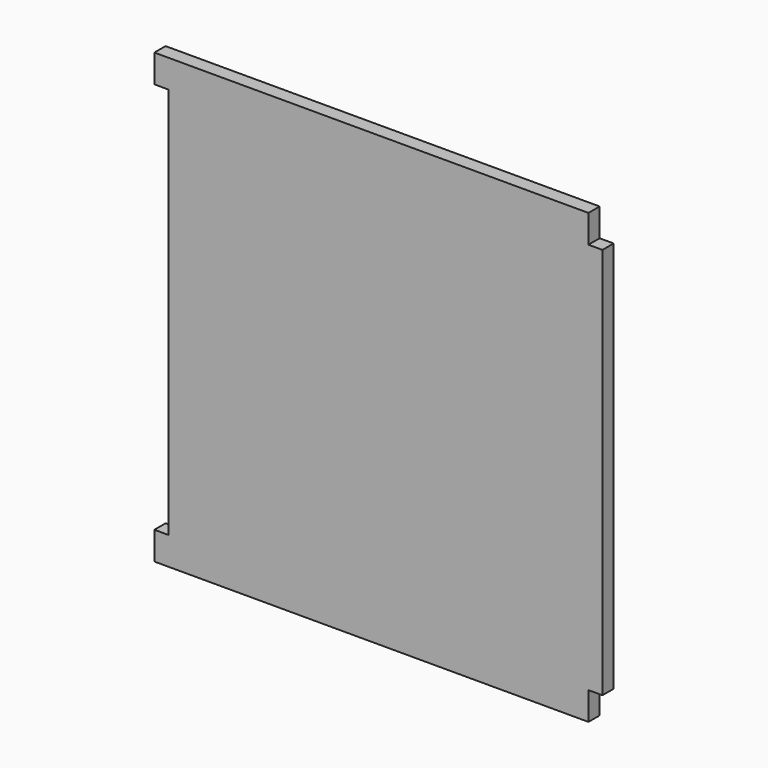
from build123d import *

# Parameters (mm, degrees)
F0_W     = 101.6
F0_H     = 101.6
F1_DEPTH = 3.175
F2_W     = 3.175
F2_H     = 88.9
F2_H_2   = 6.35
F3_DEPTH = 25.4


with BuildPart() as f1:
    # F0 (on Front) → F1 (new body)
    with BuildSketch(Plane.XZ):
        Rectangle(F0_W, F0_H)
    extrude(amount=F1_DEPTH)

    # F2 (on face) → F3 (cut)
    with BuildSketch(Plane.XZ.offset(3.175)):
        with Locations((-49.2125, 0)):
            Rectangle(F2_W, F2_H)
        with Locations((49.2125, 47.625)):
            Rectangle(F2_W, F2_H_2)
        with Locations((49.2125, -47.625)):
            Rectangle(F2_W, F2_H_2)
    extrude(amount=-F3_DEPTH, mode=Mode.SUBTRACT)


solid = f1.part
